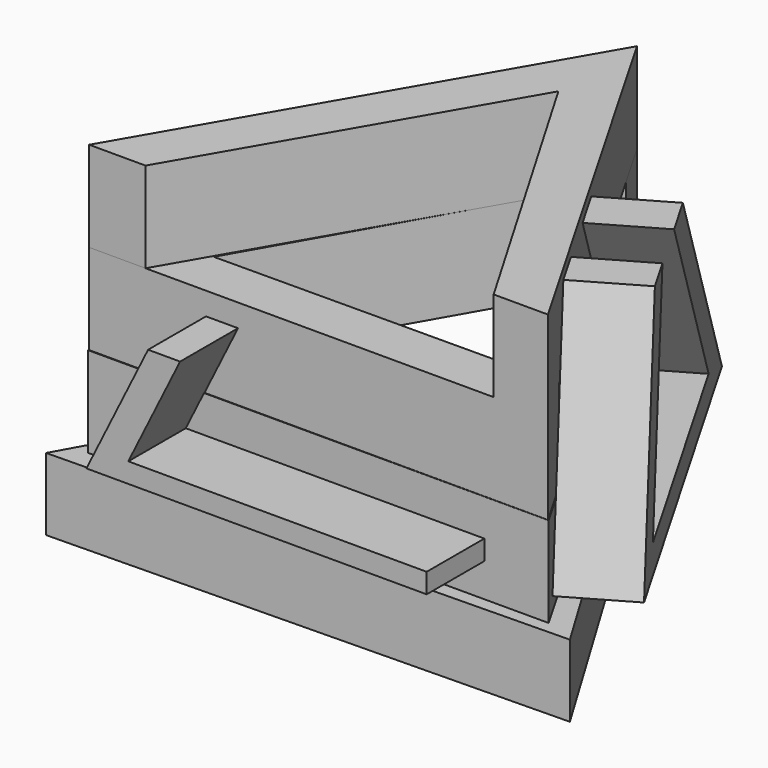
from build123d import *

# Parameters (mm, degrees)
F2_DEPTH  = 20
F3_DEPTH  = 25
F6_DEPTH  = 25
F9_DEPTH  = 25
F12_DEPTH = 20
F15_DEPTH = 20
F18_DEPTH = 20


with BuildPart() as f2:
    # F0 (on Top) → F2 (new body)
    with BuildSketch(Plane.XY):
        Polygon((72.1636915906, -40.0095078308), (-1.4325956209, 82.5003440637), (-70.7310959697, -42.4908362329), align=None)
    extrude(amount=-F2_DEPTH)

    # F1 (on face) → F3 (join)
    with BuildSketch(Plane.XY):
        Polygon((63.7132421591, -36.7848575115), (0, 73.569715023), (-7.9415651396, 59.8145207096), (39.8885467402, -23.0296631981), (-55.7716770195, -23.0296631981), (-63.7132421591, -36.7848575115), align=None)
    extrude(amount=F3_DEPTH)

    # F5 (on offset) → F6 (join)
    with BuildSketch(Plane.XY.offset(25)):
        Polygon((-63.5274310143, -36.5936169448), (63.4547173977, -36.7195606232), (55.453214499, -22.828752175), (40.0054380298, -22.828752175), (-39.7729983351, -23.2313495358), (-0.2324396947, 46.0601017108), (7.7318175716, 60.0167822194), (0.0727136166, 73.3131775679), align=None)
    extrude(amount=F6_DEPTH)

    # F8 (on offset) → F9 (join)
    with BuildSketch(Plane.XY.offset(50)):
        Polygon((0.0727136166, 73.3131775679), (-63.5274310143, -36.5936169448), (-47.9317654972, -36.6090850677), (0, 46.2213350785), (48.4369544614, -36.7046656767), (63.4547173977, -36.7195606232), align=None)
    extrude(amount=F9_DEPTH)

    # F11 (on offset) → F12 (join)
    with BuildSketch(Plane(origin=(-0.0363568083, -36.656588784, 0), x_dir=(0.9999995081, -0.0009918214, 0), z_dir=(-0.0009918214, -0.9999995081, 0))):
        Polygon((-31.1529804021, 43.7380857766), (-48.2164211571, 9.2830741778), (45.9606572986, 9.2830741778), (45.9606572986, 14.7767344154), (-36.6358867937, 14.7767344154), (-22.2931168973, 43.7380857766), align=None)
    extrude(amount=F12_DEPTH)

    # F14 (on offset) → F15 (join)
    with BuildSketch(Plane(origin=(-31.7273586988, 18.3597803116, 0), x_dir=(-0.5008586966, -0.8655290671, 0), z_dir=(-0.8655290671, 0.5008586966, 0))):
        Polygon((-51.3164810836, 24.628393352), (-49.2495509186, 24.628393352), (-43.5906848585, 24.628393352), (50.7504490814, 24.628393352), (50.7504490814, 29.7592282616), (-49.2495509186, 29.7592282616), (-56.9396201191, 49.6568456292), (-60.9895251691, 49.6568456292), align=None)
    extrude(amount=F15_DEPTH)

    # F17 (on offset) → F18 (join)
    with BuildSketch(Plane(origin=(31.8566210796, 18.3924287558, 0), x_dir=(-0.5, 0.8660254038, 0), z_dir=(0.8660254038, 0.5, 0))):
        Polygon((-31.7721163192, 72.7189217287), (-42.6499355114, 72.7189217287), (-58.2169406468, 3.7218167854), (53.5177626068, 3.7218167854), (-2.5316273462, 72.3955608765), (-15.0649024936, 72.3955608765), (34.463509317, 11.7115555596), (-45.536490683, 11.7115555596), align=None)
    extrude(amount=F18_DEPTH)


solid = f2.part
